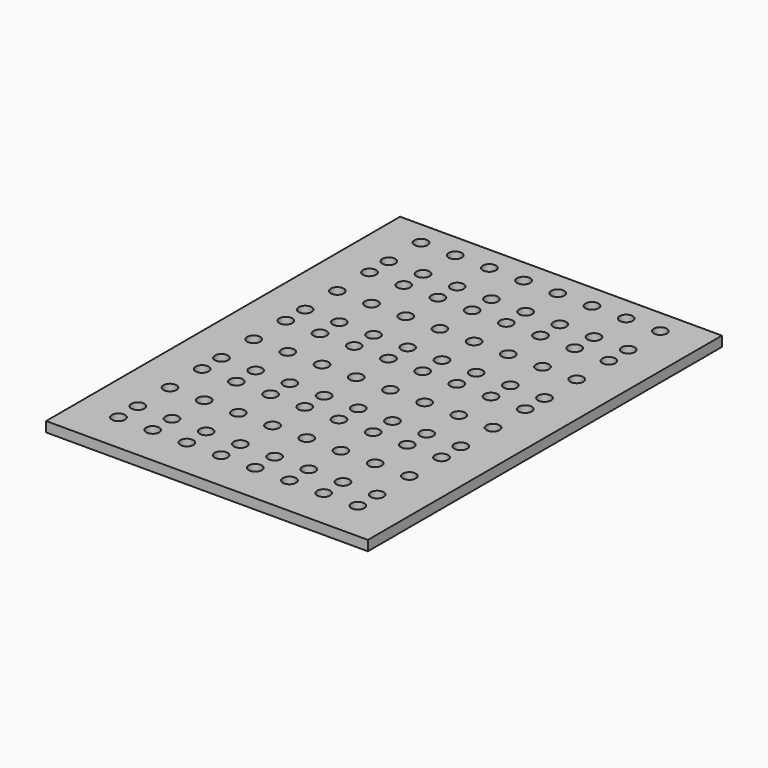
from build123d import *

# Parameters (mm, degrees)
F0_W     = 160
F0_H     = 220
F0_R     = 3.25
F1_DEPTH = 5


with BuildPart() as f1:
    # F0 (on Top) → F1 (new body)
    with BuildSketch(Plane.XY):
        Rectangle(F0_W, F0_H)
        with Locations((-60, -90)):
            Circle(F0_R, mode=Mode.SUBTRACT)
        with Locations((-43, -90)):
            Circle(F0_R, mode=Mode.SUBTRACT)
        with Locations((-60, -78)):
            Circle(F0_R, mode=Mode.SUBTRACT)
        with Locations((-43, -78)):
            Circle(F0_R, mode=Mode.SUBTRACT)
        with Locations((-60, -58)):
            Circle(F0_R, mode=Mode.SUBTRACT)
        with Locations((-43, -58)):
            Circle(F0_R, mode=Mode.SUBTRACT)
        with Locations((-26, -90)):
            Circle(F0_R, mode=Mode.SUBTRACT)
        with Locations((-9, -90)):
            Circle(F0_R, mode=Mode.SUBTRACT)
        with Locations((-26, -78)):
            Circle(F0_R, mode=Mode.SUBTRACT)
        with Locations((-26, -58)):
            Circle(F0_R, mode=Mode.SUBTRACT)
        with Locations((-9, -78)):
            Circle(F0_R, mode=Mode.SUBTRACT)
        with Locations((-9, -58)):
            Circle(F0_R, mode=Mode.SUBTRACT)
        with Locations((-60, -38)):
            Circle(F0_R, mode=Mode.SUBTRACT)
        with Locations((-43, -38)):
            Circle(F0_R, mode=Mode.SUBTRACT)
        with Locations((-60, -26)):
            Circle(F0_R, mode=Mode.SUBTRACT)
        with Locations((-43, -26)):
            Circle(F0_R, mode=Mode.SUBTRACT)
        with Locations((-60, -6)):
            Circle(F0_R, mode=Mode.SUBTRACT)
        with Locations((-43, -6)):
            Circle(F0_R, mode=Mode.SUBTRACT)
        with Locations((-26, -38)):
            Circle(F0_R, mode=Mode.SUBTRACT)
        with Locations((-9, -38)):
            Circle(F0_R, mode=Mode.SUBTRACT)
        with Locations((-26, -26)):
            Circle(F0_R, mode=Mode.SUBTRACT)
        with Locations((-26, -6)):
            Circle(F0_R, mode=Mode.SUBTRACT)
        with Locations((-9, -26)):
            Circle(F0_R, mode=Mode.SUBTRACT)
        with Locations((-9, -6)):
            Circle(F0_R, mode=Mode.SUBTRACT)
        with Locations((8, -90)):
            Circle(F0_R, mode=Mode.SUBTRACT)
        with Locations((25, -90)):
            Circle(F0_R, mode=Mode.SUBTRACT)
        with Locations((8, -78)):
            Circle(F0_R, mode=Mode.SUBTRACT)
        with Locations((8, -58)):
            Circle(F0_R, mode=Mode.SUBTRACT)
        with Locations((25, -78)):
            Circle(F0_R, mode=Mode.SUBTRACT)
        with Locations((25, -58)):
            Circle(F0_R, mode=Mode.SUBTRACT)
        with Locations((42, -90)):
            Circle(F0_R, mode=Mode.SUBTRACT)
        with Locations((59, -90)):
            Circle(F0_R, mode=Mode.SUBTRACT)
        with Locations((42, -78)):
            Circle(F0_R, mode=Mode.SUBTRACT)
        with Locations((59, -78)):
            Circle(F0_R, mode=Mode.SUBTRACT)
        with Locations((42, -58)):
            Circle(F0_R, mode=Mode.SUBTRACT)
        with Locations((59, -58)):
            Circle(F0_R, mode=Mode.SUBTRACT)
        with Locations((8, -38)):
            Circle(F0_R, mode=Mode.SUBTRACT)
        with Locations((25, -38)):
            Circle(F0_R, mode=Mode.SUBTRACT)
        with Locations((8, -26)):
            Circle(F0_R, mode=Mode.SUBTRACT)
        with Locations((8, -6)):
            Circle(F0_R, mode=Mode.SUBTRACT)
        with Locations((25, -26)):
            Circle(F0_R, mode=Mode.SUBTRACT)
        with Locations((25, -6)):
            Circle(F0_R, mode=Mode.SUBTRACT)
        with Locations((42, -38)):
            Circle(F0_R, mode=Mode.SUBTRACT)
        with Locations((59, -38)):
            Circle(F0_R, mode=Mode.SUBTRACT)
        with Locations((42, -26)):
            Circle(F0_R, mode=Mode.SUBTRACT)
        with Locations((59, -26)):
            Circle(F0_R, mode=Mode.SUBTRACT)
        with Locations((42, -6)):
            Circle(F0_R, mode=Mode.SUBTRACT)
        with Locations((59, -6)):
            Circle(F0_R, mode=Mode.SUBTRACT)
        with Locations((-60, 14)):
            Circle(F0_R, mode=Mode.SUBTRACT)
        with Locations((-60, 26)):
            Circle(F0_R, mode=Mode.SUBTRACT)
        with Locations((-43, 14)):
            Circle(F0_R, mode=Mode.SUBTRACT)
        with Locations((-43, 26)):
            Circle(F0_R, mode=Mode.SUBTRACT)
        with Locations((-60, 46)):
            Circle(F0_R, mode=Mode.SUBTRACT)
        with Locations((-43, 46)):
            Circle(F0_R, mode=Mode.SUBTRACT)
        with Locations((-26, 14)):
            Circle(F0_R, mode=Mode.SUBTRACT)
        with Locations((-26, 26)):
            Circle(F0_R, mode=Mode.SUBTRACT)
        with Locations((-9, 14)):
            Circle(F0_R, mode=Mode.SUBTRACT)
        with Locations((-9, 26)):
            Circle(F0_R, mode=Mode.SUBTRACT)
        with Locations((-26, 46)):
            Circle(F0_R, mode=Mode.SUBTRACT)
        with Locations((-9, 46)):
            Circle(F0_R, mode=Mode.SUBTRACT)
        with Locations((-60, 66)):
            Circle(F0_R, mode=Mode.SUBTRACT)
        with Locations((-43, 66)):
            Circle(F0_R, mode=Mode.SUBTRACT)
        with Locations((-60, 78)):
            Circle(F0_R, mode=Mode.SUBTRACT)
        with Locations((-43, 78)):
            Circle(F0_R, mode=Mode.SUBTRACT)
        with Locations((-60, 98)):
            Circle(F0_R, mode=Mode.SUBTRACT)
        with Locations((-43, 98)):
            Circle(F0_R, mode=Mode.SUBTRACT)
        with Locations((-26, 66)):
            Circle(F0_R, mode=Mode.SUBTRACT)
        with Locations((-26, 78)):
            Circle(F0_R, mode=Mode.SUBTRACT)
        with Locations((-9, 66)):
            Circle(F0_R, mode=Mode.SUBTRACT)
        with Locations((-9, 78)):
            Circle(F0_R, mode=Mode.SUBTRACT)
        with Locations((-26, 98)):
            Circle(F0_R, mode=Mode.SUBTRACT)
        with Locations((-9, 98)):
            Circle(F0_R, mode=Mode.SUBTRACT)
        with Locations((8, 14)):
            Circle(F0_R, mode=Mode.SUBTRACT)
        with Locations((8, 26)):
            Circle(F0_R, mode=Mode.SUBTRACT)
        with Locations((25, 14)):
            Circle(F0_R, mode=Mode.SUBTRACT)
        with Locations((25, 26)):
            Circle(F0_R, mode=Mode.SUBTRACT)
        with Locations((8, 46)):
            Circle(F0_R, mode=Mode.SUBTRACT)
        with Locations((25, 46)):
            Circle(F0_R, mode=Mode.SUBTRACT)
        with Locations((42, 14)):
            Circle(F0_R, mode=Mode.SUBTRACT)
        with Locations((42, 26)):
            Circle(F0_R, mode=Mode.SUBTRACT)
        with Locations((59, 14)):
            Circle(F0_R, mode=Mode.SUBTRACT)
        with Locations((59, 26)):
            Circle(F0_R, mode=Mode.SUBTRACT)
        with Locations((42, 46)):
            Circle(F0_R, mode=Mode.SUBTRACT)
        with Locations((59, 46)):
            Circle(F0_R, mode=Mode.SUBTRACT)
        with Locations((8, 66)):
            Circle(F0_R, mode=Mode.SUBTRACT)
        with Locations((8, 78)):
            Circle(F0_R, mode=Mode.SUBTRACT)
        with Locations((25, 66)):
            Circle(F0_R, mode=Mode.SUBTRACT)
        with Locations((25, 78)):
            Circle(F0_R, mode=Mode.SUBTRACT)
        with Locations((8, 98)):
            Circle(F0_R, mode=Mode.SUBTRACT)
        with Locations((25, 98)):
            Circle(F0_R, mode=Mode.SUBTRACT)
        with Locations((42, 66)):
            Circle(F0_R, mode=Mode.SUBTRACT)
        with Locations((59, 66)):
            Circle(F0_R, mode=Mode.SUBTRACT)
        with Locations((42, 78)):
            Circle(F0_R, mode=Mode.SUBTRACT)
        with Locations((59, 78)):
            Circle(F0_R, mode=Mode.SUBTRACT)
        with Locations((42, 98)):
            Circle(F0_R, mode=Mode.SUBTRACT)
        with Locations((59, 98)):
            Circle(F0_R, mode=Mode.SUBTRACT)
    extrude(amount=F1_DEPTH)


solid = f1.part
